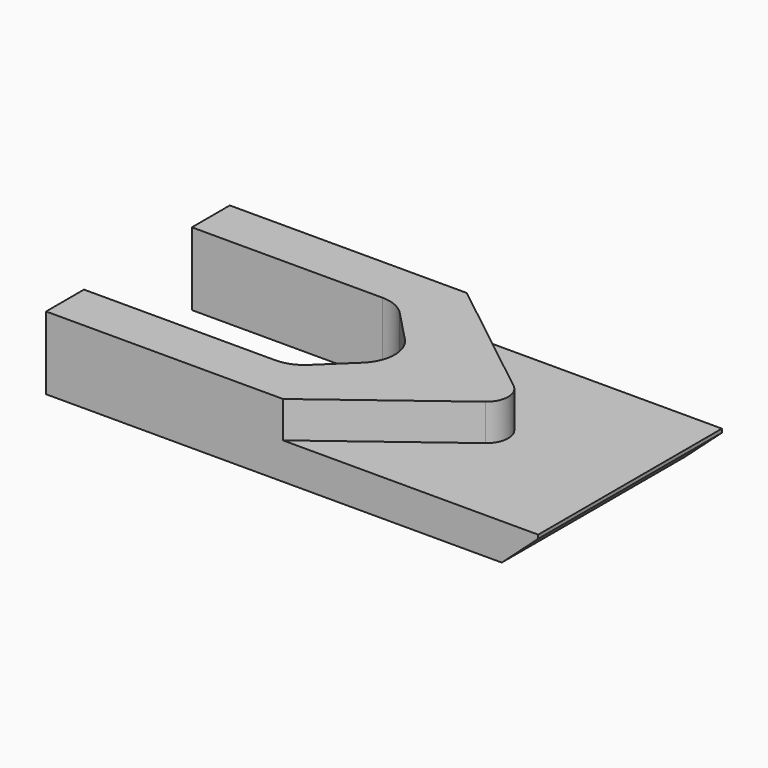
from build123d import *

# Parameters (mm, degrees)
F0_W     = 27
F0_H     = 12.6
F1_DEPTH = 4
F3_DEPTH = 25
F4_R     = 2
F6_DEPTH = 2
F7_SIZE2 = 2
F7_SIZE  = 1.8


with BuildPart() as f1:
    # F0 (on Top) → F1 (new body)
    with BuildSketch(Plane.XY):
        with Locations((13.5, 6.3)):
            Rectangle(F0_W, F0_H)
    extrude(amount=F1_DEPTH)

    # F2 (on face) → F3 (cut)
    with BuildSketch(Plane.XY.offset(4)):
        Polygon((11.3033894163, 10), (0, 10), (0, 2.6), (11.3033894163, 2.6), (15, 6.1416643043), align=None)
    extrude(amount=-F3_DEPTH, mode=Mode.SUBTRACT)

    # F4
    f4_edges = [f1.edges().sort_by_distance(p)[0] for p in [
        (11.303389, 10, 2),
        (15, 6.141664, 2),
        (11.303389, 2.6, 2),
    ]]
    fillet(f4_edges, radius=F4_R)

    # F5 (on face) → F6 (cut)
    with BuildSketch(Plane.XY.offset(4)):
        with BuildLine():
            Line((27, 12.6), (13, 12.6))
            Line((13, 12.6), (19.9540073999, 7.1233526669))
            ThreePointArc((19.9540073999, 7.1233526669), (20.4114805586, 6.1676652225), (19.9334913588, 5.2220720186))
            Line((19.9334913588, 5.2220720186), (13, 0))
            Line((13, 0), (27, 0))
            Line((27, 0), (27, 12.6))
        make_face()
    extrude(amount=-F6_DEPTH, mode=Mode.SUBTRACT)

    # F7
    f7_edges = [f1.edges().sort_by_distance(p)[0] for p in [
        (27, 6.3, 0),
    ]]
    f7_side = f1.faces().sort_by_distance((27, 6.3, 1))[0]
    chamfer(f7_edges, length=F7_SIZE, length2=F7_SIZE2, reference=f7_side)


solid = f1.part
